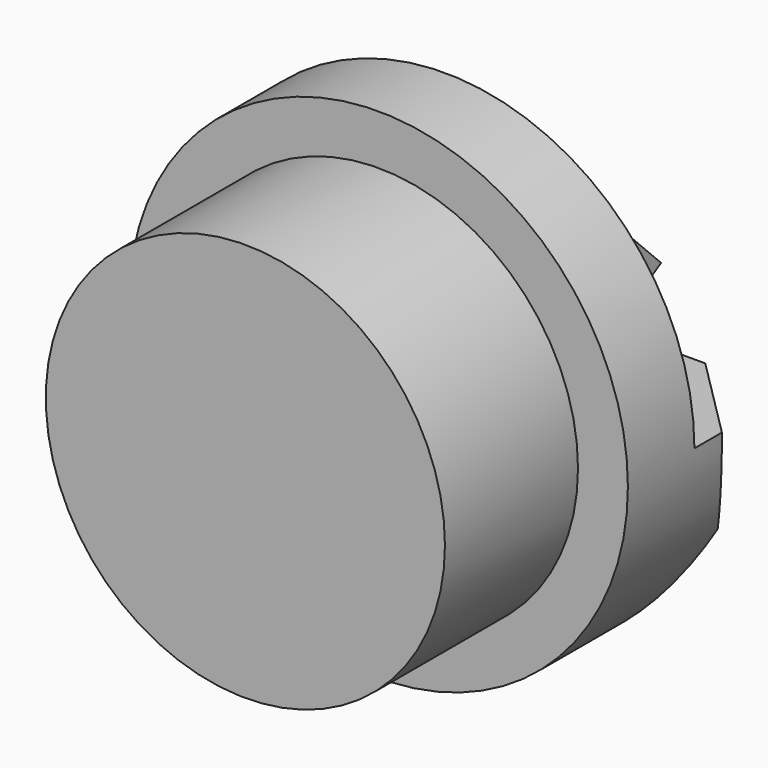
from build123d import *

# Parameters (mm, degrees)
F0_R          = 3
F1_DEPTH      = 1
F2_R          = 2.4
F2_R_2        = 1.4
F3_DEPTH      = 2
F4_W          = 2
F4_H          = 2
F5_DEPTH      = 2
F6_SIZE       = 1.5
F8_DEPTH      = 25
F8_DEPTH_BACK = 25
F11_DEPTH     = 25


with BuildPart() as f1:
    # F0 (on Front) → F1 (new body)
    with BuildSketch(Plane.XZ):
        Circle(F0_R)
    extrude(amount=F1_DEPTH)

    # F2 (on face) → F3 (join)
    with BuildSketch(Plane.XZ.offset(1)):
        Circle(F2_R)
        Circle(F2_R_2, mode=Mode.SUBTRACT)
        Circle(F2_R_2)
    extrude(amount=F3_DEPTH)

    # F4 (on face) → F5 (join)
    with BuildSketch(Plane(origin=(0, 0, 0), x_dir=(-1, 0, 0), z_dir=(0, 1, 0))):
        with Locations((0, 1)):
            Rectangle(F4_W, F4_H)
        with BuildLine():
            Line((-1, 0), (-3, 0))
            ThreePointArc((-3, 0), (0, -3), (3, 0))
            Line((3, 0), (1, 0))
            Line((1, 0), (-1, 0))
        make_face()
    extrude(amount=F5_DEPTH)

    # F6
    f6_edges = [f1.edges().sort_by_distance(p)[0] for p in [
        (0, 2, 2),
    ]]
    chamfer(f6_edges, length=F6_SIZE)

    # F7 (on face) → F8 (cut, two sides)
    with BuildSketch(Plane(origin=(-1, 0, 0), x_dir=(0, -1, 0), z_dir=(-1, 0, 0))) as f8_sk:
        with BuildLine():
            add(Edge.make_bspline(
                [(-2, 0.5), (-1.8012148761, 0.400607438), (-1.6024297521, 0.2238049575), (-1.4133396134, 0)],
                knots=[0, 0, 0, 0, 0.7803205861, 0.7803205861, 0.7803205861, 0.7803205861], degree=3))
            Line((-2, 0.5), (-2, 0))
            Line((-2, 0), (-1.4133396134, 0))
        make_face()
        with BuildLine():
            Line((-1.4133396134, 0), (-2, 0))
            Line((-2, 0), (-2, -3.0058792327))
            Line((-2, -3.0058792327), (-0.234228326, -3.0058792327))
            add(Edge.make_bspline(
                [(-1.4133396134, 0), (-0.651200933, -0.9020587545), (-0.0465611068, -2.5676912631), (-0.234228326, -3.0058792327)],
                knots=[0.7803205861, 0.7803205861, 0.7803205861, 0.7803205861, 3.9254475921, 3.9254475921, 3.9254475921, 3.9254475921], degree=3))
        make_face()
    extrude(amount=-F8_DEPTH, mode=Mode.SUBTRACT)
    extrude(f8_sk.sketch, amount=F8_DEPTH_BACK, mode=Mode.SUBTRACT)

    # F10 (on face) + F9 (on face) → F11 (cut)
    with BuildSketch(Plane.XY):
        Polygon((-2, 1.4133396134), (-3, 1.4133396134), (-3, 0.4133396134), align=None)
    with BuildSketch(Plane.XY):
        Polygon((3, 0.4133396134), (3, 1.4133396134), (2, 1.4133396134), align=None)
    extrude(amount=-F11_DEPTH, mode=Mode.SUBTRACT)


solid = f1.part
